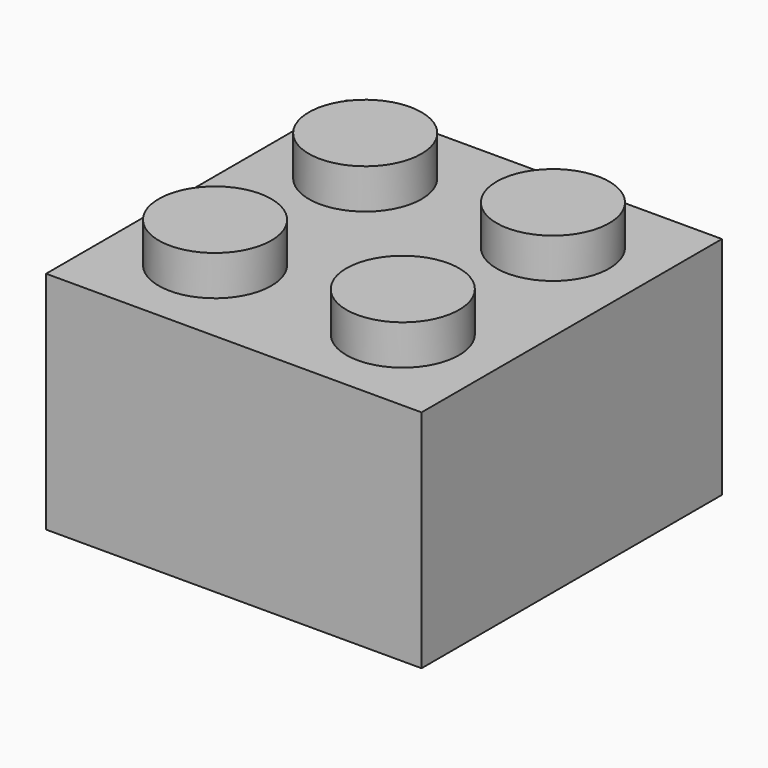
from build123d import *

# Parameters (mm, degrees)
F1_DEPTH = 8
F3_W     = 8
F3_H     = 8
F3_R     = 2.4
F4_DEPTH = 1.7
F5_R     = 2.4
F6_DEPTH = 1.7


with BuildPart() as f1:
    # F0 (on Front) → F1 (new body)
    with BuildSketch(Plane.XZ):
        Polygon((-2.4, 9.6), (-4, 9.6), (-4, 0), (4, 0), (4, 9.6), (2.4, 9.6), (2.4, 11.3), (-2.4, 11.3), align=None)
    extrude(amount=F1_DEPTH)

    # F3 (on plane+point) → F4 (cut, through all)
    with BuildSketch(Plane.XY.offset(11.3)):
        with Locations((0, -4)):
            Rectangle(F3_W, F3_H)
        with Locations((0, -4)):
            Circle(F3_R, mode=Mode.SUBTRACT)
    extrude(amount=-F4_DEPTH, mode=Mode.SUBTRACT)

    # F5 (on Top) → F6 (cut)
    with BuildSketch(Plane.XY):
        with Locations((0, -4)):
            Circle(F5_R)
    extrude(amount=F6_DEPTH, mode=Mode.SUBTRACT)

    # F8: F1 across plane


with BuildPart() as f1_1:
    add(f1.part)
    add(f1.part.mirror(Plane.YZ.offset(4)))

    # F9: F1 across plane


with BuildPart() as f1_2:
    add(f1_1.part)
    add(f1_1.part.mirror(Plane.XZ))


solid = f1_2.part
